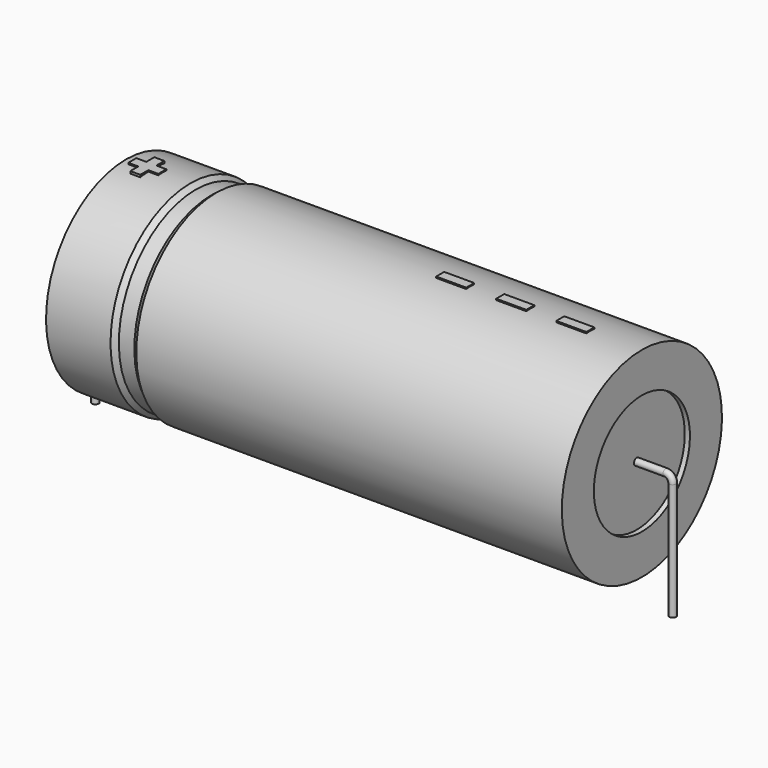
from build123d import *

# Parameters (mm, degrees)
SKETCH_R    = 0.45
SKETCH004_W = 3.9
SKETCH004_H = 1.3
PAD_DEPTH   = 13.13


with BuildPart() as sweep_body:
    # Sweep: sweep along a path in Sketch001
    with BuildLine(Plane.XZ) as sweep_path:
        Line((0, -3), (0, 12.2))
        ThreePointArc((0, 12.2), (0.263601, 12.836393), (0.899993, 13.1))
        Line((0.899993, 13.1), (74.1, 13.1))
        ThreePointArc((74.1, 13.1), (74.736396, 12.836396), (75, 12.2))
        Line((75, 12.2), (75, -3))
    # Sketch → Sweep (sweep)
    with BuildSketch(Plane.XY.offset(-2)):
        Circle(SKETCH_R)
    sweep(path=sweep_path.line)


with BuildPart() as revolution:
    # Sketch002 → Revolution (revolve)
    with BuildSketch(Plane.XZ):
        Polygon((4, 26.1), (4, 20.9), (71, 20.9), (71, 26.1), (15.725, 26.1), (15.055, 25.58), (13.045, 25.58), (12.375, 26.1), align=None)
    revolve(axis=Axis((6.97588, 0, 13.1), (1, 0, 0)))


with BuildPart() as revolution001:
    # Sketch003 → Revolution001 (revolve)
    with BuildSketch(Plane.XZ):
        Polygon((4.67, 25.58), (8.02, 25.58), (8.02, 14.4), (66.98, 14.4), (66.98, 25.58), (70.33, 25.58), (70.33, 13.1), (4.67, 13.1), align=None)
    revolve(axis=Axis((6.97588, 0, 13.1), (1, 0, 0)))


with BuildPart() as pad:
    # Sketch004 → Pad (new body)
    with BuildSketch(Plane.XY.offset(13.1)):
        with Locations((62.35, 0)):
            Rectangle(SKETCH004_W, SKETCH004_H)
        with Locations((54.55, 0)):
            Rectangle(SKETCH004_W, SKETCH004_H)
        with Locations((46.75, 0)):
            Rectangle(SKETCH004_W, SKETCH004_H)
        Polygon((6.104, 0.65), (4.804, 0.65), (4.804, -0.65), (6.104, -0.65), (6.104, -1.95), (7.404, -1.95), (7.404, -0.65), (8.704, -0.65), (8.704, 0.65), (7.404, 0.65), (7.404, 1.95), (6.104, 1.95), align=None)
    extrude(amount=PAD_DEPTH)


solid = Compound([sweep_body.part, revolution.part, revolution001.part, pad.part])
